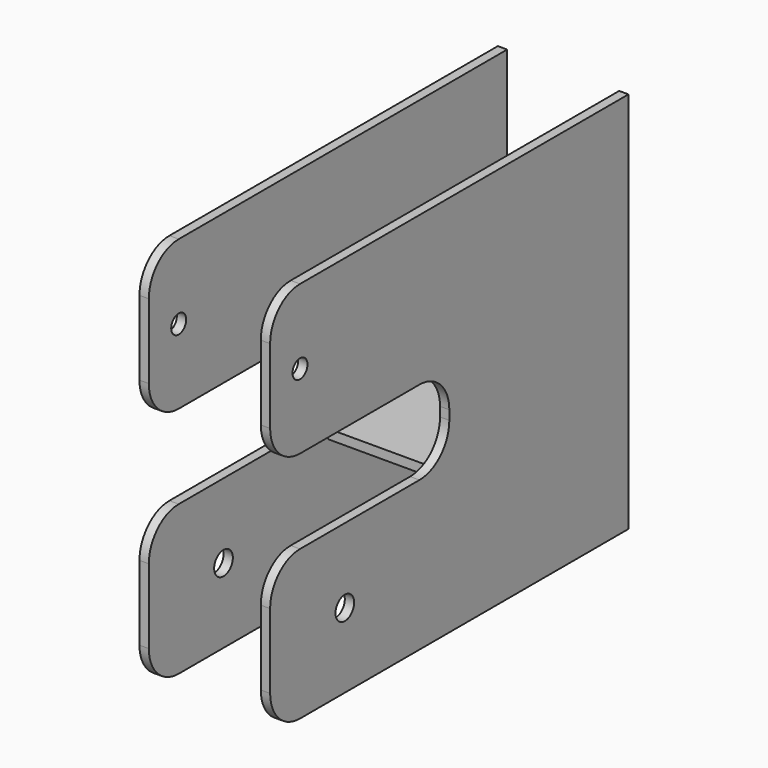
from build123d import *

# Parameters (mm, degrees)
F0_R     = 7.9375
F0_R_2   = 6.35
F1_DEPTH = 44.45
F2_W     = 76.2
F2_H     = 88.9
F2_H_2   = 69.85
F3_DEPTH = 304.801
F4_W     = 76.2
F4_H     = 148.997045
F4_R     = 19.05
F5_DEPTH = 171.451


with BuildPart() as f1:
    # F0 (on Right) → F1 (new body, symmetric)
    with BuildSketch(Plane.YZ):
        with BuildLine():
            Line((152.4, 130.175), (-127, 130.175))
            ThreePointArc((-127, 130.175), (-144.960512, 122.735512), (-152.4, 104.775))
            Line((-152.4, 104.775), (-152.4, 53.975))
            ThreePointArc((-152.4, 53.975), (-144.960512, 36.014488), (-127, 28.575))
            Line((-127, 28.575), (-25.4, 28.575))
            ThreePointArc((-25.4, 28.575), (-7.439488, 21.135512), (0, 3.175))
            Line((0, 3.175), (0, -3.175))
            ThreePointArc((0, -3.175), (-7.439488, -21.135512), (-25.4, -28.575))
            Line((-25.4, -28.575), (-127, -28.575))
            ThreePointArc((-127, -28.575), (-144.960512, -36.014488), (-152.4, -53.975))
            Line((-152.4, -53.975), (-152.4, -104.775))
            ThreePointArc((-152.4, -104.775), (-144.960512, -122.735512), (-127, -130.175))
            Line((-127, -130.175), (152.4, -130.175))
            Line((152.4, -130.175), (152.4, 130.175))
        make_face()
        with Locations((-88.9, -79.375)):
            Circle(F0_R, mode=Mode.SUBTRACT)
        with Locations((-127, 79.375)):
            Circle(F0_R_2, mode=Mode.SUBTRACT)
    extrude(amount=F1_DEPTH, both=True)

    # F2 (on face) → F3 (cut, through all)
    with BuildSketch(Plane(origin=(0, 152.4, 0), x_dir=(-1, 0, 0), z_dir=(0, 1, 0))):
        with Locations((0, 85.725)):
            Rectangle(F2_W, F2_H)
        Rectangle(F2_W, F2_H_2)
        with Locations((0, -85.725)):
            Rectangle(F2_W, F2_H)
    extrude(amount=-F3_DEPTH, mode=Mode.SUBTRACT)

    # F4 (on face) → F5 (cut, through all)
    with BuildSketch(Plane.XY.offset(41.275)):
        with Locations((0, -74.498522)):
            Rectangle(F4_W, F4_H)
        with Locations((0, 101.6)):
            Circle(F4_R)
    extrude(amount=-F5_DEPTH, mode=Mode.SUBTRACT)


solid = f1.part
